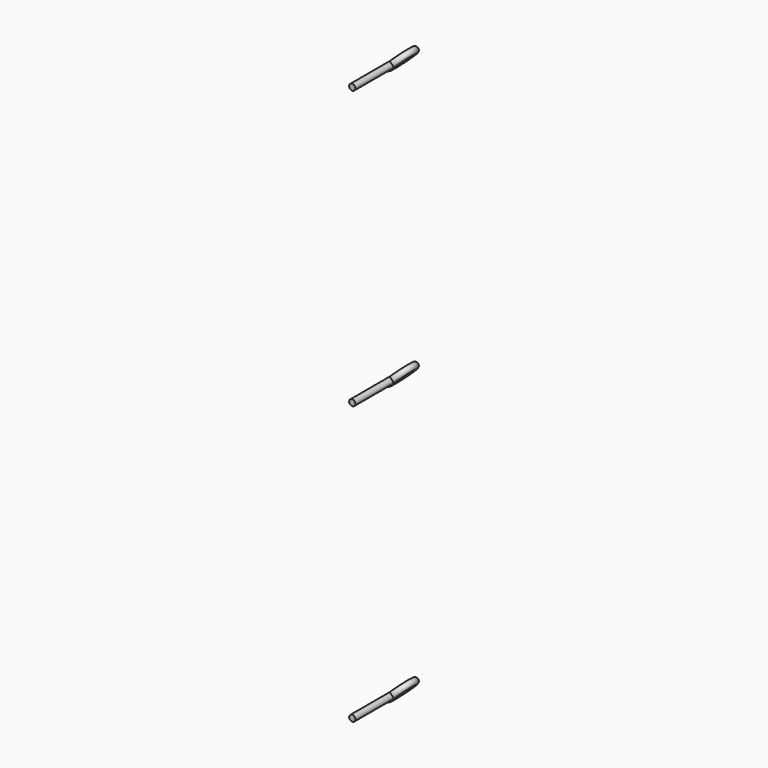
from build123d import *

# Parameters (mm, degrees)
TORUS_R                = 2.5
TORUS_ROLL_ANGLE       = 90
CYLINDER_R             = 2.5
CYLINDER_DEPTH         = 40
CYLINDER_PITCH_ANGLE   = 90
FUSION_ROLL_ANGLE      = 134.309623
FUSION_PITCH_ANGLE     = -5e-06
FUSION_PLACEMENT_ANGLE = -90
ARRAY004_X_COUNT       = 3
ARRAY004_X_PITCH       = 225


with BuildPart() as torus:
    # Torus → Torus (revolve)
    with BuildSketch(Plane.XZ):
        with Locations((10, 0)):
            Circle(TORUS_R)
    revolve(axis=Axis((0, 0, 0), (0, 0, 1)))


with BuildPart() as torus_1:
    # Torus roll: moved
    add(torus.part.rotate(Axis((0, 0, 0), (1, 0, 0)), TORUS_ROLL_ANGLE))


with BuildPart() as torus_2:
    # Torus placement: moved
    add(torus_1.part)


with BuildPart() as railing_eyelet:
    # Cylinder → Cylinder (new body)
    with BuildSketch(Plane.XY):
        Circle(CYLINDER_R)
    extrude(amount=CYLINDER_DEPTH)


with BuildPart() as railing_eyelet_1:
    # Cylinder pitch: moved
    add(railing_eyelet.part.rotate(Axis((0, 0, 0), (0, 1, 0)), CYLINDER_PITCH_ANGLE))


with BuildPart() as railing_eyelet_2:
    # Cylinder placement: moved
    add(railing_eyelet_1.part.moved(Location((10, 0, 0))))

    # Fusion: union Torus
    add(torus_2.part)


with BuildPart() as railing_eyelet_3:
    # Fusion roll: moved
    add(railing_eyelet_2.part.rotate(Axis((0, 0, 0), (1, 0, 0)), FUSION_ROLL_ANGLE))


with BuildPart() as railing_eyelet_4:
    # Fusion pitch: moved
    add(railing_eyelet_3.part.rotate(Axis((0, 0, 0), (0, 1, 0)), FUSION_PITCH_ANGLE))


with BuildPart() as railing_eyelet_5:
    # Fusion placement: moved
    add(railing_eyelet_4.part.moved(Location((89.390194, -365.3, 545.000005))).rotate(Axis((89.390194, -365.3, 545.000005), (0, 0, 1)), FUSION_PLACEMENT_ANGLE))

    # Array004 X: railing_eyelet ×3


with BuildPart() as railing_eyelet_6:
    add(railing_eyelet_5.part)
    with Locations(*[(0, 0, i * ARRAY004_X_PITCH) for i in range(1, ARRAY004_X_COUNT)]):
        add(railing_eyelet_5.part)


solid = railing_eyelet_6.part
